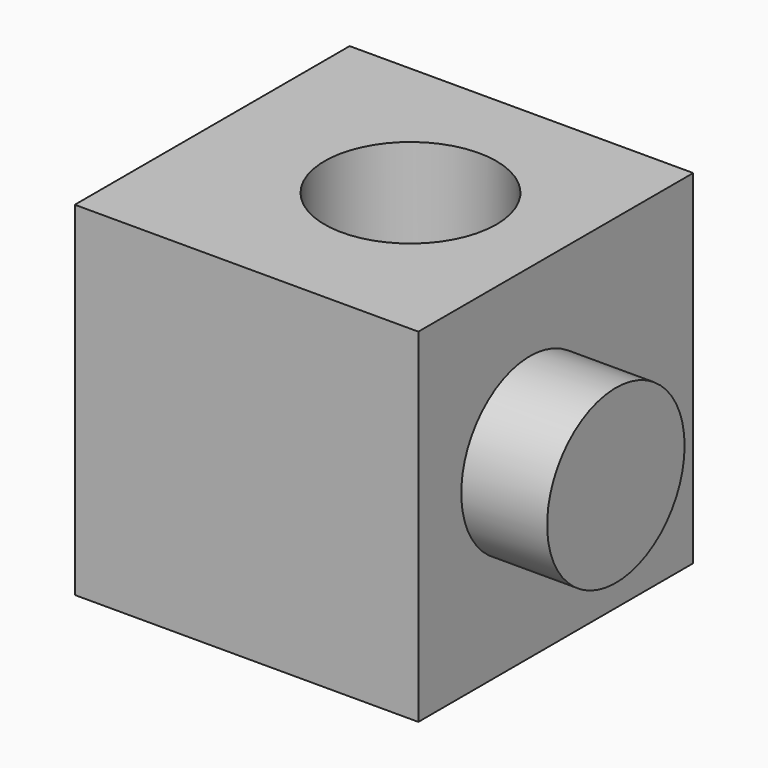
from build123d import *

# Parameters (mm, degrees)
F0_W     = 50.8
F0_H     = 50.8
F1_DEPTH = 50.8
F2_R     = 12.7
F3_DEPTH = 12.7
F4_W     = 25.4
F4_H     = 25.4
F5_DEPTH = 12.7
F6_R     = 12.7
F7_DEPTH = 50.8


with BuildPart() as f1:
    # F0 (on Front) → F1 (new body)
    with BuildSketch(Plane.XZ):
        with Locations((-5.73167, -15.464296)):
            Rectangle(F0_W, F0_H)
    extrude(amount=F1_DEPTH)

    # F2 (on face) → F3 (join)
    with BuildSketch(Plane.YZ.offset(19.66833)):
        with Locations((-30.170836, -14.321598)):
            Circle(F2_R)
    extrude(amount=F3_DEPTH)

    # F4 (on face) → F5 (join)
    with BuildSketch(Plane(origin=(0, 0, 0), x_dir=(-1, 0, 0), z_dir=(0, 1, 0))):
        with Locations((12.7, -12.7)):
            Rectangle(F4_W, F4_H)
    extrude(amount=F5_DEPTH)

    # F6 (on face) → F7 (cut)
    with BuildSketch(Plane(origin=(0, 0, -40.864296), x_dir=(1, 0, 0), z_dir=(0, 0, -1))):
        with Locations((-2.732974, 24.255641)):
            Circle(F6_R)
    extrude(amount=-F7_DEPTH, mode=Mode.SUBTRACT)


solid = f1.part
